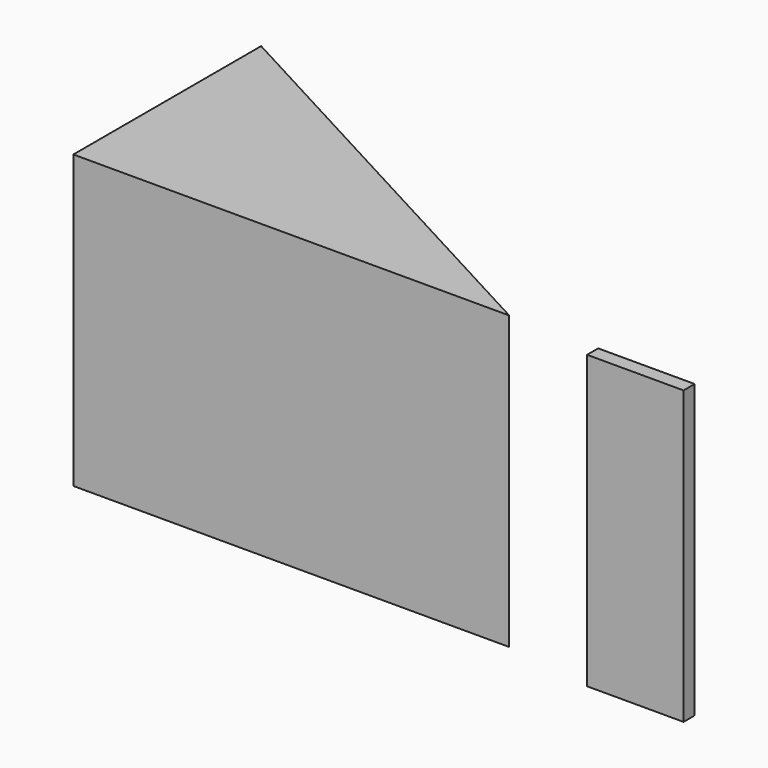
from build123d import *

# Parameters (mm, degrees)
F0_W     = 8.392481
F0_H     = 1.209175
F1_DEPTH = 25.4


with BuildPart() as f1:
    # F0 (on Top) → F1 (new body)
    with BuildSketch(Plane.XY):
        with Locations((-4.196241, -0.604587)):
            Rectangle(F0_W, F0_H)
        Polygon((-54.072209, 0), (-16.13694, 0), (-54.072209, 20.429269), align=None)
    extrude(amount=F1_DEPTH)


solid = f1.part
